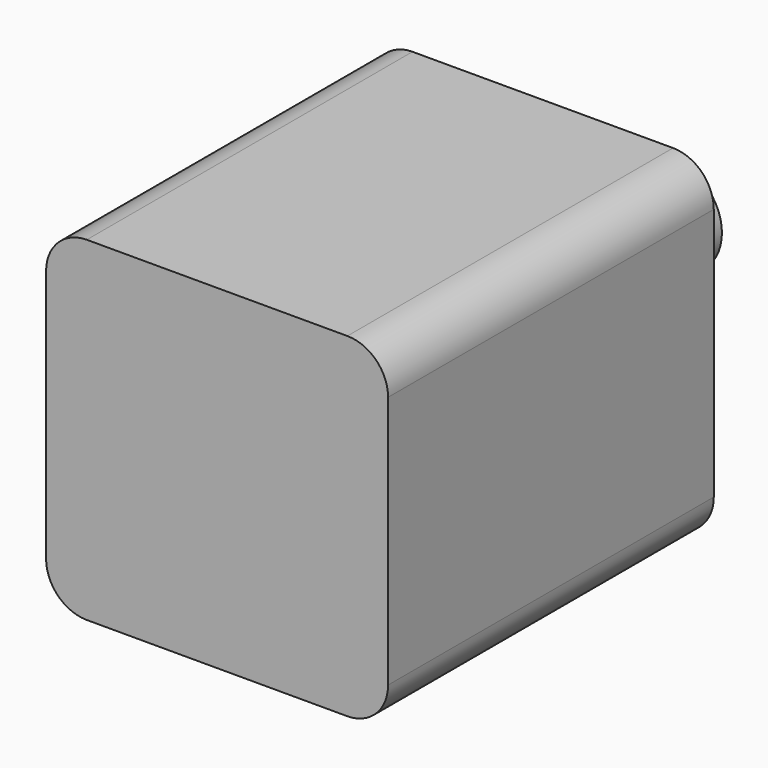
from build123d import *

# Parameters (mm, degrees)
F0_W     = 42
F0_H     = 41.1101707086
F0_R     = 3
F0_R_2   = 6
F1_DEPTH = 50
F2_DEPTH = 20
F3_D     = 6
F3_DEPTH = 15
F3_TIP   = 1.8025818571
F4_R     = 5


with BuildPart() as f1:
    # F0 (on Front) → F1 (new body)
    with BuildSketch(Plane.XZ):
        Rectangle(F0_W, F0_H)
        with Locations((-15, -15)):
            Circle(F0_R, mode=Mode.SUBTRACT)
        with Locations((15, -15)):
            Circle(F0_R, mode=Mode.SUBTRACT)
        with Locations((-15, 15)):
            Circle(F0_R, mode=Mode.SUBTRACT)
        Circle(F0_R_2, mode=Mode.SUBTRACT)
        with Locations((15, 15)):
            Circle(F0_R, mode=Mode.SUBTRACT)
        with Locations((15, -15)):
            Circle(F0_R)
        Circle(F0_R_2)
        with Locations((15, 15)):
            Circle(F0_R)
        with Locations((-15, 15)):
            Circle(F0_R)
        with Locations((-15, -15)):
            Circle(F0_R)
    extrude(amount=F1_DEPTH)

    # F3
    with Locations(Plane(origin=(0, 0, 0), x_dir=(1, 0, 0), z_dir=(0, 1, 0))):
        with Locations((15, 15), (15, -15), (-15, -15), (-15, 15)):
            Hole(F3_D / 2, depth=F3_DEPTH)
            with Locations((0, 0, -(F3_DEPTH + F3_TIP / 2))):  # 118° drill point
                Cone(0, F3_D / 2, F3_TIP, mode=Mode.SUBTRACT)

    # F4
    f4_edges = [f1.edges().sort_by_distance(p)[0] for p in [
        (21, -25, -20.555085),
        (21, -25, 20.555085),
        (-21, -25, -20.555085),
        (-21, -25, 20.555085),
    ]]
    fillet(f4_edges, radius=F4_R)


with BuildPart() as f2:
    # F0 (on Front) → F2 (new body)
    with BuildSketch(Plane.XZ):
        Circle(F0_R_2)
    extrude(amount=-F2_DEPTH)


solid = Compound([f1.part, f2.part])
